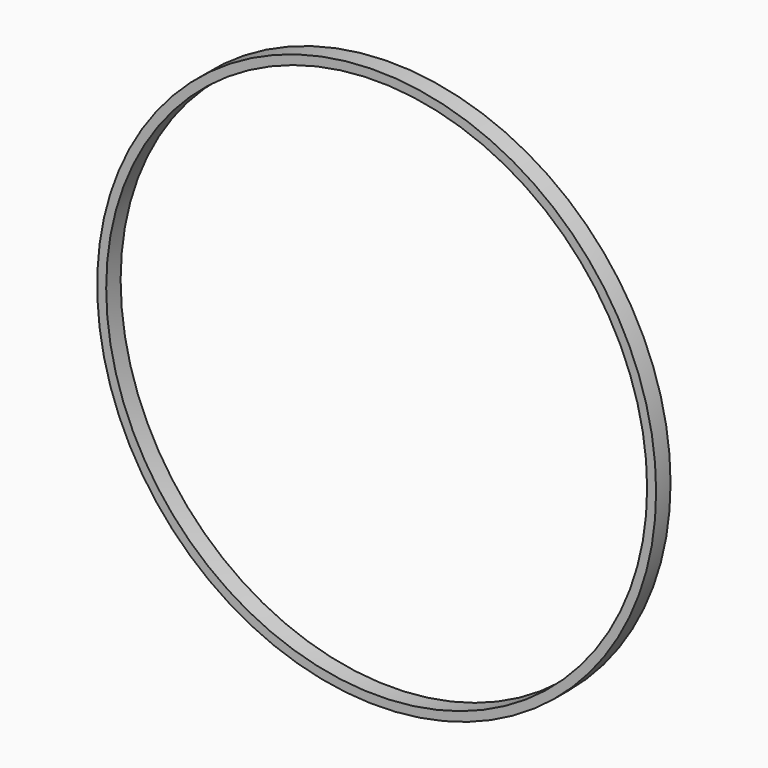
from build123d import *

# Parameters (mm, degrees)
F0_R     = 38.1
F1_DEPTH = 2.54


with BuildPart() as f1:
    # F0 (on Front) → F1 (new body)
    with BuildSketch(Plane.XZ):
        with BuildLine():
            ThreePointArc((-39.37, 0), (0, -39.37), (39.37, 0))
            ThreePointArc((39.37, 0), (0, 39.37), (-39.37, 0))
        make_face()
        Circle(F0_R, mode=Mode.SUBTRACT)
    extrude(amount=F1_DEPTH)


solid = f1.part
